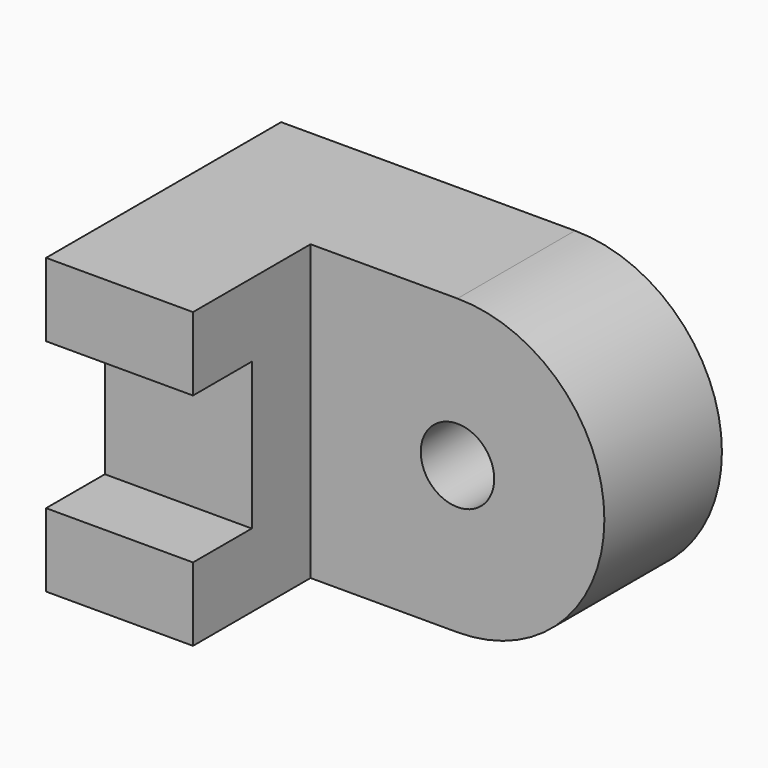
from build123d import *

# Parameters (mm, degrees)
F0_W     = 12.7
F0_H     = 25.4
F1_DEPTH = 25.4
F3_DEPTH = 12.7
F4_W     = 12.7
F4_H     = 12.7
F5_DEPTH = 6.35
F6_R     = 3.175
F7_DEPTH = 12.7


with BuildPart() as f1:
    # F0 (on Front) → F1 (new body)
    with BuildSketch(Plane.XZ):
        with Locations((6.35, 12.7)):
            Rectangle(F0_W, F0_H)
    extrude(amount=F1_DEPTH)

    # F2 (on face) → F3 (join)
    with BuildSketch(Plane(origin=(0, 0, 0), x_dir=(-1, 0, 0), z_dir=(0, 1, 0))):
        with BuildLine():
            Line((-12.7, 0), (-12.7, 25.4))
            Line((-12.7, 25.4), (-25.4, 25.4))
            ThreePointArc((-25.4, 25.4), (-38.1, 12.7), (-25.4, 0))
            Line((-25.4, 0), (-12.7, 0))
        make_face()
    extrude(amount=-F3_DEPTH)

    # F4 (on face) → F5 (cut)
    with BuildSketch(Plane.XZ.offset(25.4)):
        with Locations((6.35, 12.7)):
            Rectangle(F4_W, F4_H)
    extrude(amount=-F5_DEPTH, mode=Mode.SUBTRACT)

    # F6 (on face) → F7 (cut, through all)
    with BuildSketch(Plane.XZ.offset(12.7)):
        with Locations((25.4, 12.7)):
            Circle(F6_R)
    extrude(amount=-F7_DEPTH, mode=Mode.SUBTRACT)


solid = f1.part
